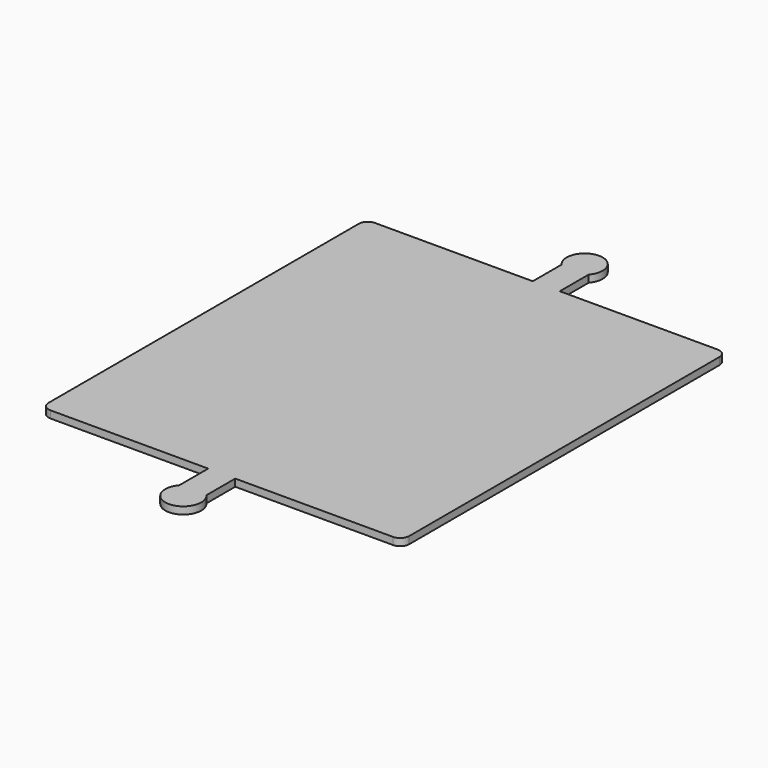
from build123d import *

# Parameters (mm, degrees)
F1_DEPTH = 18
F2_W     = 597.534776
F2_H     = 613.757442
F2_R     = 15
F2_R_2   = 12.5
F3_DEPTH = 10
F4_R     = 2


with BuildPart() as f1:
    # F0 (on Top) → F1 (new body)
    with BuildSketch(Plane.XY):
        with BuildLine():
            Line((-200, 215), (-200, 0))
            Line((-200, 0), (-200, -215))
            ThreePointArc((-200, -215), (-197.071068, -222.071068), (-190, -225))
            Line((-190, -225), (-15, -225))
            Line((-15, -225), (0, -225))
            Line((0, -225), (15, -225))
            Line((15, -225), (190, -225))
            ThreePointArc((190, -225), (197.071068, -222.071068), (200, -215))
            Line((200, -215), (200, 0))
            Line((200, 0), (200, 215))
            ThreePointArc((200, 215), (197.071068, 222.071068), (190, 225))
            Line((190, 225), (15, 225))
            Line((15, 225), (0, 225))
            Line((0, 225), (-15, 225))
            Line((-15, 225), (-190, 225))
            ThreePointArc((-190, 225), (-197.071068, 222.071068), (-200, 215))
        make_face()
        Polygon((-15, 265), (-15, 225), (0, 225), (15, 225), (15, 265), align=None)
        Polygon((0, -225), (-15, -225), (-15, -265), (15, -265), (15, -225), align=None)
        with BuildLine():
            ThreePointArc((15, 265), (0, 298.228757), (-15, 265))
            Line((-15, 265), (15, 265))
        make_face()
        with BuildLine():
            Line((15, -265), (-15, -265))
            ThreePointArc((-15, -265), (0, -298.228757), (15, -265))
        make_face()
    extrude(amount=F1_DEPTH)

    # F2 (on face) → F3 (cut)
    with BuildSketch(Plane(origin=(0, 0, 0), x_dir=(1, 0, 0), z_dir=(0, 0, -1))):
        with Locations((11.110723, 3.703583)):
            Rectangle(F2_W, F2_H)
        with Locations((-165, -190)):
            Circle(F2_R, mode=Mode.SUBTRACT)
        with Locations((-70, -70)):
            Circle(F2_R_2, mode=Mode.SUBTRACT)
        with Locations((165, -190)):
            Circle(F2_R, mode=Mode.SUBTRACT)
        with Locations((70, -70)):
            Circle(F2_R_2, mode=Mode.SUBTRACT)
        with Locations((-70, 70)):
            Circle(F2_R_2, mode=Mode.SUBTRACT)
        with Locations((-165, 190)):
            Circle(F2_R, mode=Mode.SUBTRACT)
        with Locations((70, 70)):
            Circle(F2_R_2, mode=Mode.SUBTRACT)
        with Locations((165, 190)):
            Circle(F2_R, mode=Mode.SUBTRACT)
    extrude(amount=-F3_DEPTH, mode=Mode.SUBTRACT)

    # F4
    f4_edges = [f1.edges().sort_by_distance(p)[0] for p in [
        (180, 190, 5),
        (150, 190, 0),
        (150, 190, 10),
        (82.5, 70, 5),
        (57.5, 70, 0),
        (57.5, 70, 10),
        (82.5, -70, 5),
        (57.5, -70, 0),
        (57.5, -70, 10),
        (180, -190, 5),
        (150, -190, 0),
        (150, -190, 10),
        (-57.5, -70, 5),
        (-82.5, -70, 0),
        (-82.5, -70, 10),
        (-57.5, 70, 5),
        (-82.5, 70, 0),
        (-82.5, 70, 10),
        (-150, -190, 5),
        (-180, -190, 0),
        (-180, -190, 10),
        (-150, 190, 5),
        (-180, 190, 0),
        (-180, 190, 10),
    ]]
    fillet(f4_edges, radius=F4_R)


solid = f1.part
